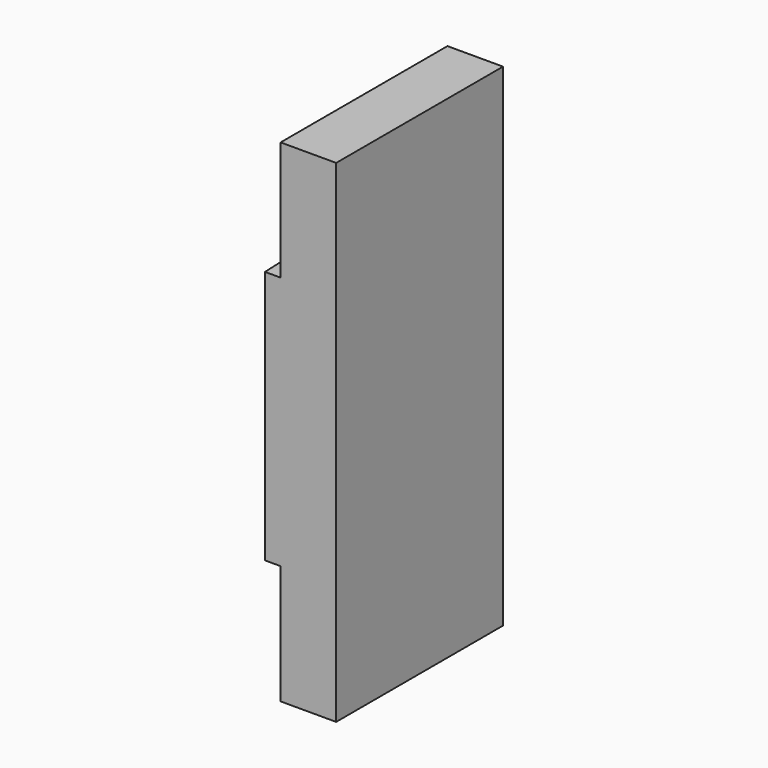
from build123d import *

# Parameters (mm, degrees)
F1_DEPTH = 62
F3_W     = 26.2750325567
F3_H     = 15
F4_DEPTH = 25


with BuildPart() as f1:
    # F0 (on Top) → F1 (new body)
    with BuildSketch(Plane.XY):
        with BuildLine():
            Line((100.2154187574, -64.4678249955), (87.201975286, -64.4678249955))
            ThreePointArc((87.201975286, -64.4678249955), (88.7526881566, -71.4854053398), (93.1160420433, -77.1961222085))
            ThreePointArc((93.1160420433, -77.1961222085), (91.4511190136, -83.8686795317), (91.2494597241, -90.7428575522))
            Line((91.2494597241, -90.7428575522), (100.2154187574, -90.7428575522))
            Line((100.2154187574, -90.7428575522), (100.2154187574, -64.4678249955))
        make_face()
    extrude(amount=F1_DEPTH)

    # F3 (on offset) → F4 (cut)
    with BuildSketch(Plane.YZ.offset(93.2154187574)):
        with Locations((-77.6053412739, 54.5)):
            Rectangle(F3_W, F3_H)
        with Locations((-77.6053412739, 7.5)):
            Rectangle(F3_W, F3_H)
    extrude(amount=-F4_DEPTH, mode=Mode.SUBTRACT)


solid = f1.part
